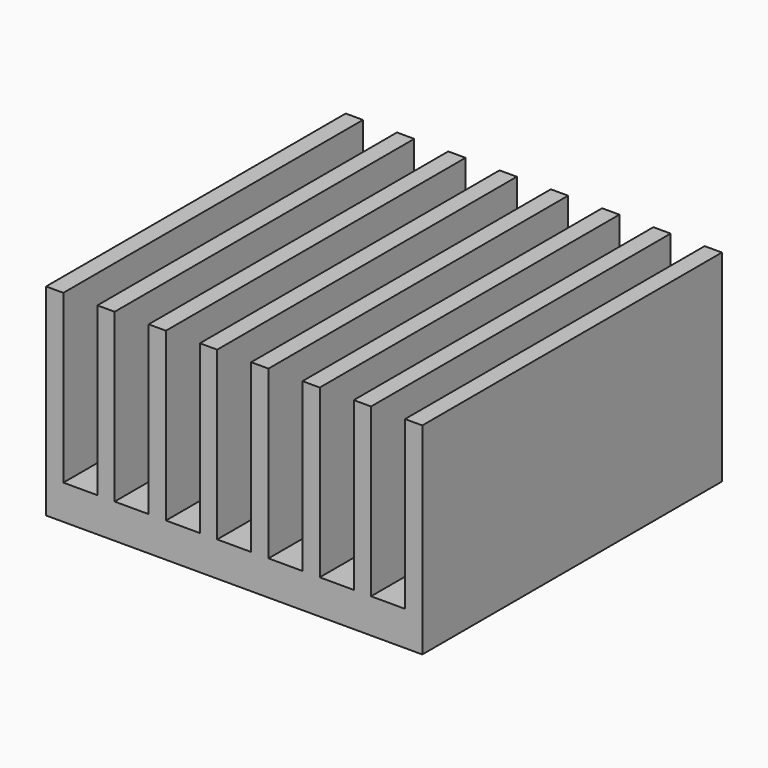
from build123d import *

# Parameters (mm, degrees)
F0_W     = 16.5862
F0_H     = 16.51
F1_DEPTH = 8.89
F2_W     = 1.4986
F2_H     = 7.366
F3_DEPTH = 25.4


with BuildPart() as f1:
    # F0 (on Top) → F1 (new body)
    with BuildSketch(Plane.XY):
        Rectangle(F0_W, F0_H)
    extrude(amount=F1_DEPTH)

    # F2 (on face) → F3 (cut)
    with BuildSketch(Plane.XZ.offset(8.255)):
        with Locations((0, 5.207)):
            Rectangle(F2_W, F2_H)
        with Locations((2.2606, 5.207)):
            Rectangle(F2_W, F2_H)
        with Locations((4.5212, 5.207)):
            Rectangle(F2_W, F2_H)
        with Locations((6.7818, 5.207)):
            Rectangle(F2_W, F2_H)
        with Locations((-2.2606, 5.207)):
            Rectangle(F2_W, F2_H)
        with Locations((-4.5212, 5.207)):
            Rectangle(F2_W, F2_H)
        with Locations((-6.7818, 5.207)):
            Rectangle(F2_W, F2_H)
    extrude(amount=-F3_DEPTH, mode=Mode.SUBTRACT)


solid = f1.part
